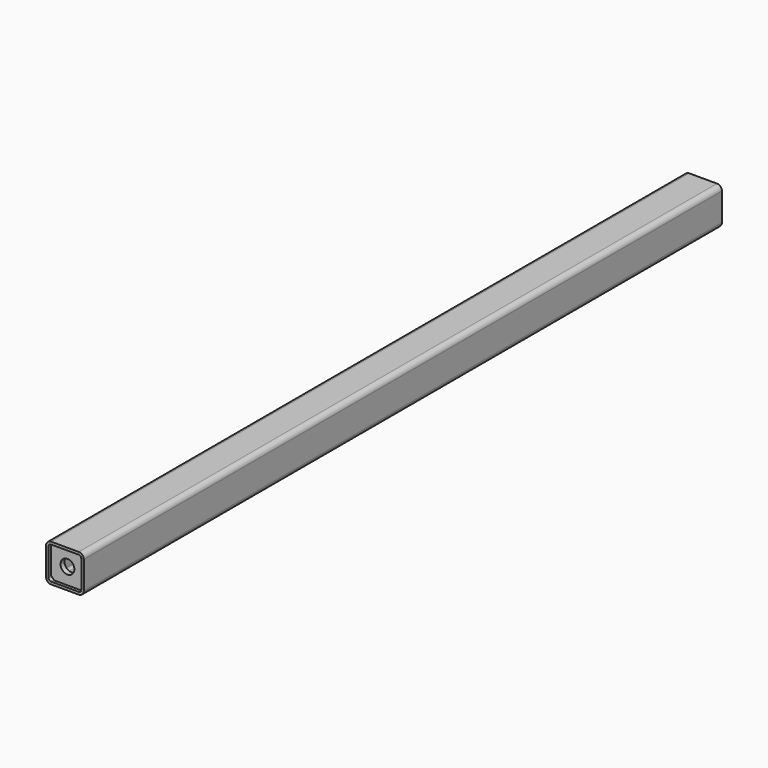
from build123d import *

# Parameters (mm, degrees)
F1_DEPTH = 635
F2_START = 622
F0_R     = 11
F2_DEPTH = 8


with BuildPart() as f1:
    # F0 (on Front) → F1 (new body, symmetric)
    with BuildSketch(Plane.XZ):
        with BuildLine():
            Line((22.05, 30), (-22.05, 30))
            ThreePointArc((-22.05, 30), (-27.6714989104, 27.6714989104), (-30, 22.05))
            Line((-30, 22.05), (-30, -22.05))
            ThreePointArc((-30, -22.05), (-27.6714989104, -27.6714989104), (-22.05, -30))
            Line((-22.05, -30), (22.05, -30))
            ThreePointArc((22.05, -30), (27.6714989104, -27.6714989104), (30, -22.05))
            Line((30, -22.05), (30, 22.05))
            ThreePointArc((30, 22.05), (27.6714989104, 27.6714989104), (22.05, 30))
        make_face()
        with BuildLine():
            ThreePointArc((22.05, 26), (24.8430717857, 24.8430717857), (26, 22.05))
            Line((26, 22.05), (26, 21))
            Line((26, 21), (26, -21))
            Line((26, -21), (26, -22.05))
            ThreePointArc((26, -22.05), (24.8430717857, -24.8430717857), (22.05, -26))
            Line((22.05, -26), (21, -26))
            Line((21, -26), (-21, -26))
            Line((-21, -26), (-22.05, -26))
            ThreePointArc((-22.05, -26), (-24.8430717857, -24.8430717857), (-26, -22.05))
            Line((-26, -22.05), (-26, -21))
            Line((-26, -21), (-26, 21))
            Line((-26, 21), (-26, 22.05))
            ThreePointArc((-26, 22.05), (-24.8430717857, 24.8430717857), (-22.05, 26))
            Line((-22.05, 26), (-21, 26))
            Line((-21, 26), (21, 26))
            Line((21, 26), (22.05, 26))
        make_face(mode=Mode.SUBTRACT)
    extrude(amount=F1_DEPTH, both=True)


with BuildPart() as f2:
    # F0 (on Front) → F2 (new body)
    with BuildSketch(Plane.XZ.offset(F2_START)):
        Polygon((26, -21), (26, 21), (21, 26), (-21, 26), (-26, 21), (-26, -21), (-21, -26), (21, -26), align=None)
        Circle(F0_R, mode=Mode.SUBTRACT)
    extrude(amount=F2_DEPTH)


solid = Compound([f1.part, f2.part])
